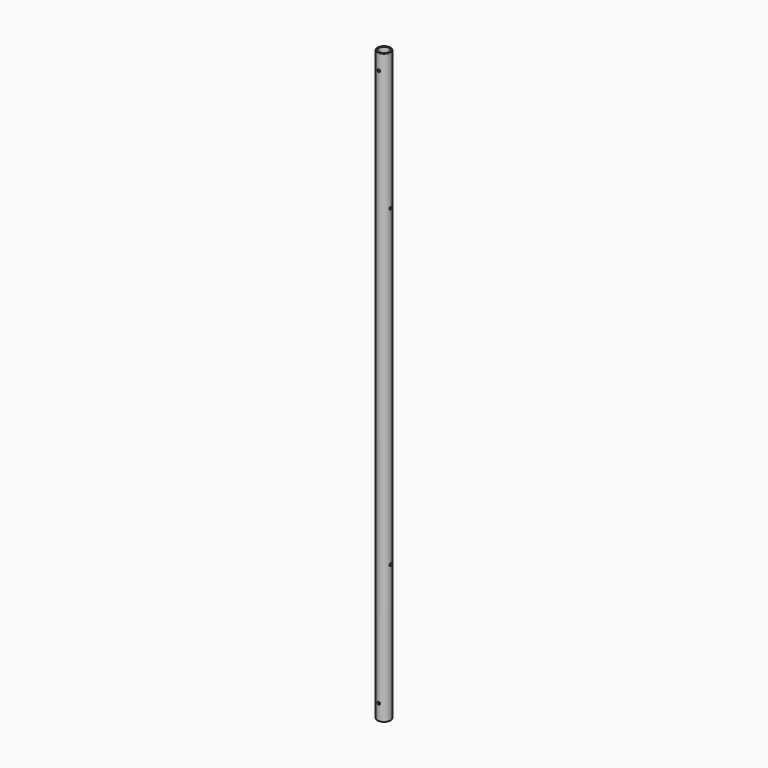
from build123d import *

# Parameters (mm, degrees)
F0_R          = 5
F0_R_2        = 4
F1_DEPTH      = 225
F2_R          = 1
F3_DEPTH      = 5.001
F3_DEPTH_BACK = 5.001
F4_R          = 1
F5_DEPTH      = 5.0010001
F5_DEPTH_BACK = 5.0010001


with BuildPart() as f1:
    # F0 (on Top) → F1 (new body, symmetric)
    with BuildSketch(Plane.XY):
        Circle(F0_R)
        Circle(F0_R_2, mode=Mode.SUBTRACT)
    extrude(amount=F1_DEPTH, both=True)

    # F2 (on Front) → F3 (cut, two sides)
    with BuildSketch(Plane.XZ) as f3_sk:
        with Locations((0, 213)):
            Circle(F2_R)
        with Locations((0, -213)):
            Circle(F2_R)
    extrude(amount=-F3_DEPTH, mode=Mode.SUBTRACT)
    extrude(f3_sk.sketch, amount=F3_DEPTH_BACK, mode=Mode.SUBTRACT)

    # F4 (on Right) → F5 (cut, two sides)
    with BuildSketch(Plane.YZ) as f5_sk:
        with Locations((0, 120)):
            Circle(F4_R)
        with Locations((0, -120)):
            Circle(F4_R)
    extrude(amount=-F5_DEPTH, mode=Mode.SUBTRACT)
    extrude(f5_sk.sketch, amount=F5_DEPTH_BACK, mode=Mode.SUBTRACT)


solid = f1.part
